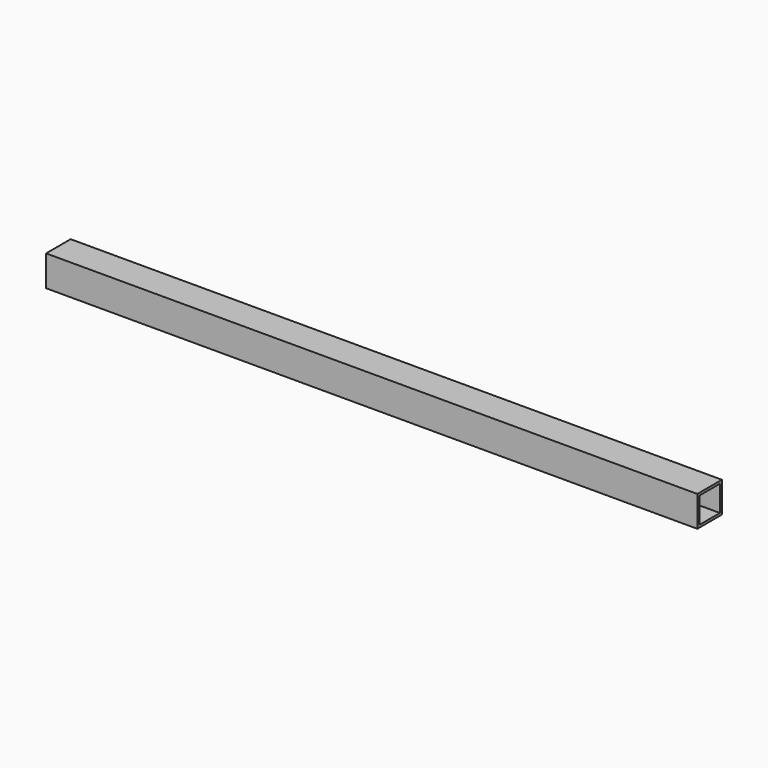
from build123d import *

# Parameters (mm, degrees)
F0_W     = 20
F0_H     = 20
F0_W_2   = 16.8
F0_H_2   = 16.8
F1_DEPTH = 212


with BuildPart() as f1:
    # F0 (on Right) → F1 (new body, symmetric)
    with BuildSketch(Plane.YZ):
        with Locations((10, -10)):
            Rectangle(F0_W, F0_H)
        with Locations((10, -10)):
            Rectangle(F0_W_2, F0_H_2, mode=Mode.SUBTRACT)
    extrude(amount=F1_DEPTH, both=True)


solid = f1.part
